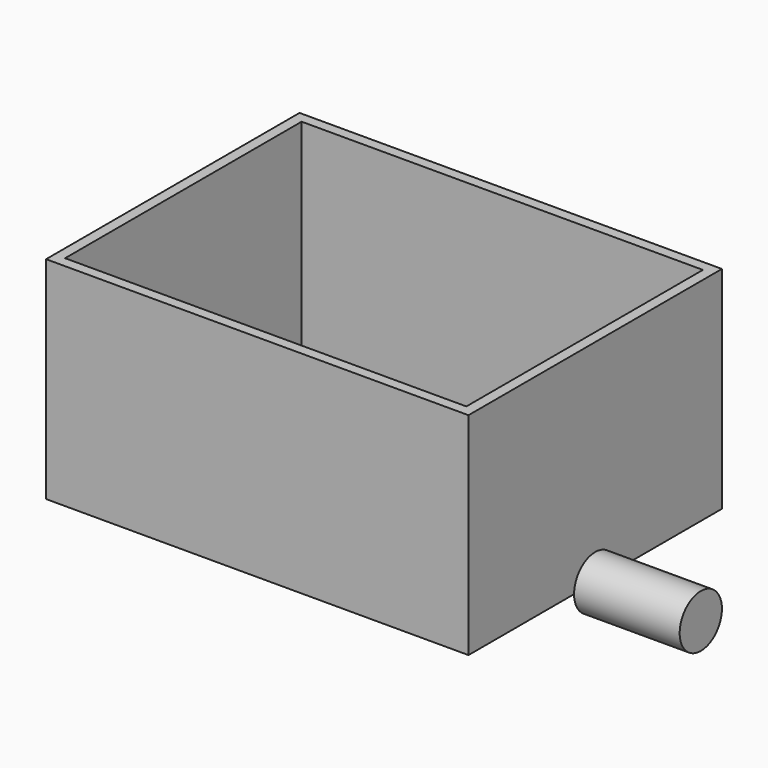
from build123d import *

# Parameters (mm, degrees)
F0_W     = 101.6
F0_H     = 76.2
F1_DEPTH = 50.8
F2_W     = 96.52
F2_H     = 71.12
F3_DEPTH = 48.26
F4_R     = 6.35
F5_DEPTH = 25.4


with BuildPart() as f1:
    # F0 (on Top) → F1 (new body)
    with BuildSketch(Plane.XY):
        Rectangle(F0_W, F0_H)
    extrude(amount=F1_DEPTH)

    # F2 (on face) → F3 (cut)
    with BuildSketch(Plane.XY.offset(50.8)):
        Rectangle(F2_W, F2_H)
    extrude(amount=-F3_DEPTH, mode=Mode.SUBTRACT)

    # F4 (on face) → F5 (join)
    with BuildSketch(Plane.YZ.offset(50.8)):
        Circle(F4_R)
    extrude(amount=F5_DEPTH)


solid = f1.part
